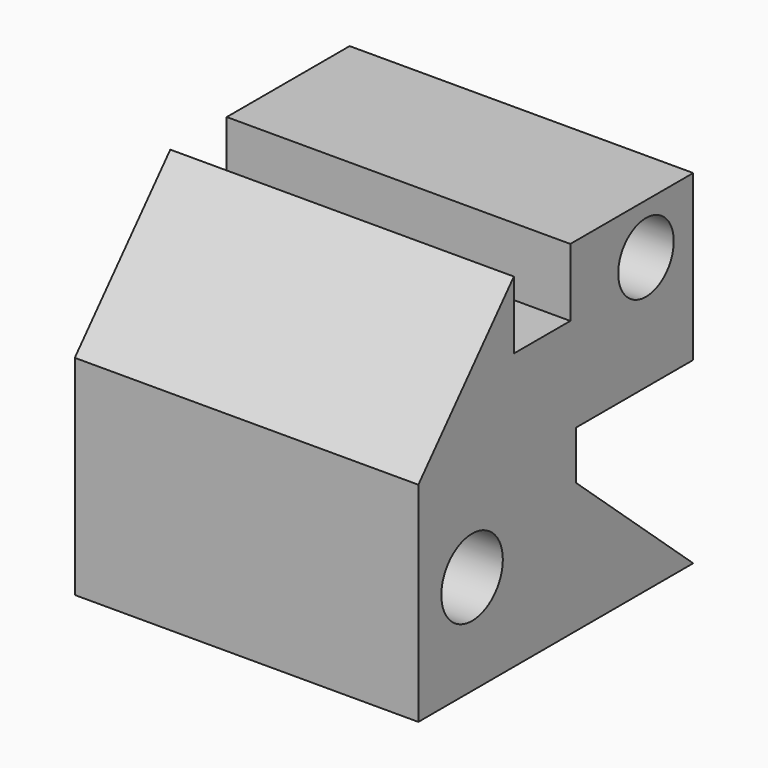
from build123d import *

# Parameters (mm, degrees)
F0_W      = 127
F0_H      = 127
F1_DEPTH  = 127
F2_W      = 26.088409
F2_H      = 25.054172
F3_DEPTH  = 127.001
F5_DEPTH  = 127.001
F6_R      = 12.831899
F7_DEPTH  = 127.001
F8_R      = 14.20836
F9_DEPTH  = 127.001
F11_DEPTH = 127.001


with BuildPart() as f1:
    # F0 (on Front) → F1 (new body)
    with BuildSketch(Plane.XZ):
        with Locations((-34.830512, -2.6593)):
            Rectangle(F0_W, F0_H)
    extrude(amount=F1_DEPTH)

    # F2 (on face) → F3 (cut, through all)
    with BuildSketch(Plane.YZ.offset(28.669488)):
        with Locations((-69.830659, 48.313614)):
            Rectangle(F2_W, F2_H)
    extrude(amount=-F3_DEPTH, mode=Mode.SUBTRACT)

    # F4 (on face) → F5 (cut, through all)
    with BuildSketch(Plane.YZ.offset(28.669488)):
        Polygon((-127, 11.028986), (-82.874864, 60.8407), (-127, 60.8407), align=None)
    extrude(amount=-F5_DEPTH, mode=Mode.SUBTRACT)

    # F6 (on face) → F7 (cut, through all)
    with BuildSketch(Plane.YZ.offset(28.669488)):
        with Locations((-21.827992, 42.256124)):
            Circle(F6_R)
    extrude(amount=-F7_DEPTH, mode=Mode.SUBTRACT)

    # F8 (on face) → F9 (cut, through all)
    with BuildSketch(Plane.YZ.offset(28.669488)):
        with Locations((-102.18028, -29.178262)):
            Circle(F8_R)
    extrude(amount=-F9_DEPTH, mode=Mode.SUBTRACT)

    # F10 (on face) → F11 (cut, through all)
    with BuildSketch(Plane.YZ.offset(28.669488)):
        Polygon((0, -66.1593), (0, 0), (-54.054275, 0), (-54.054275, -18.060265), align=None)
    extrude(amount=-F11_DEPTH, mode=Mode.SUBTRACT)


solid = f1.part
